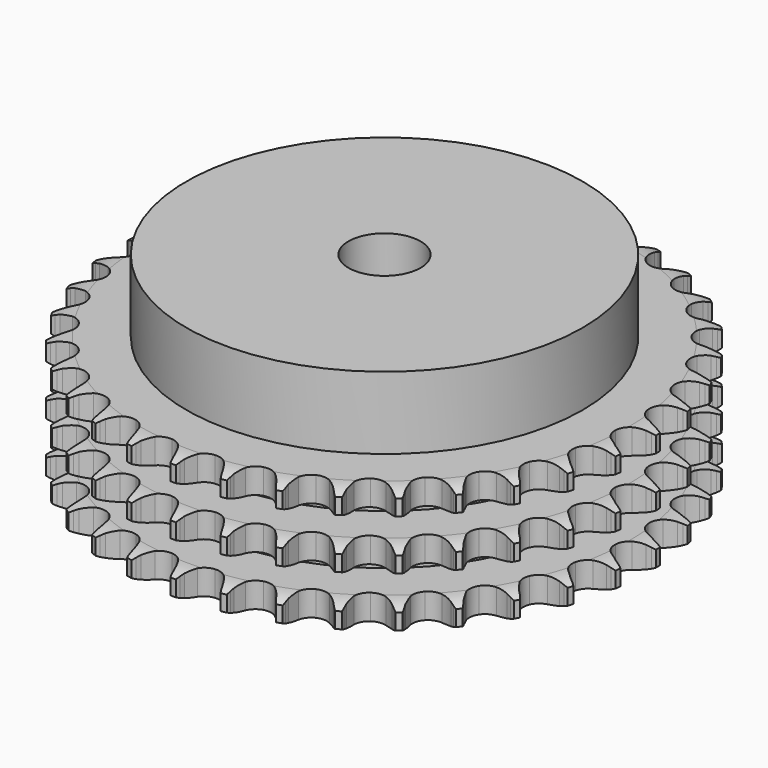
from build123d import *

# Parameters (mm, degrees)
PAD_DEPTH         = 34.9
SKETCH001_R       = 55
PAD001_DEPTH      = 55
SKETCH002_R       = 10
POCKET_DEPTH      = 0.001
POCKET_DEPTH_BACK = 55.001


with BuildPart() as part:
    # Sprocket → Pad (new body)
    with BuildSketch(Plane.XY):
        with BuildLine():
            ThreePointArc((-6.691346, 74.34694), (-5.938959, 73.318588), (-5.388264, 72.169532))
            Line((-5.388264, 72.169532), (-4.973116, 71.048101))
            ThreePointArc((-4.973116, 71.048101), (-4.315736, 69.599875), (-3.458518, 68.260216))
            ThreePointArc((-3.458518, 68.260216), (-1.934686, 66.983187), (0, 66.525082))
            ThreePointArc((0, 66.525082), (1.934686, 66.983187), (3.458518, 68.260216))
            ThreePointArc((3.458518, 68.260216), (4.315736, 69.599875), (4.973116, 71.048101))
            Line((4.973116, 71.048101), (5.388264, 72.169532))
            ThreePointArc((5.388264, 72.169532), (5.938959, 73.318588), (6.691346, 74.34694))
            ThreePointArc((6.691346, 74.34694), (7.248022, 73.20077), (7.584695, 71.97185))
            Line((7.584695, 71.97185), (7.792932, 70.794313))
            ThreePointArc((7.792932, 70.794313), (8.181157, 69.25198), (8.785394, 67.780788))
            ThreePointArc((8.785394, 67.780788), (10.056715, 66.252191), (11.878512, 65.455997))
            ThreePointArc((11.878512, 65.455997), (13.863904, 65.561288), (15.59127, 66.545704))
            Line((15.59127, 66.545704), (17.579324, 69.018345))
            ThreePointArc((17.579324, 69.018345), (17.869839, 69.541172), (18.18804, 70.047626))
            ThreePointArc((18.18804, 70.047626), (18.935057, 71.079886), (19.858972, 71.957368))
            ThreePointArc((19.858972, 71.957368), (20.202046, 70.730219), (20.313876, 69.460933))
            Line((20.313876, 69.460933), (20.308509, 68.265137))
            ThreePointArc((20.308509, 68.265137), (20.415101, 66.678271), (20.746936, 65.122831))
            ThreePointArc((20.746936, 65.122831), (21.724885, 63.391795), (23.375239, 62.283102))
            ThreePointArc((23.375239, 62.283102), (25.347526, 62.032195), (27.222906, 62.692358))
            Line((27.222906, 62.692358), (29.620519, 64.770282))
            ThreePointArc((29.620519, 64.770282), (29.999719, 65.232834), (30.403237, 65.674332))
            ThreePointArc((30.403237, 65.674332), (31.322566, 66.556618), (32.388314, 67.255027))
            ThreePointArc((32.388314, 67.255027), (32.506759, 65.986341), (32.390152, 64.717485))
            Line((32.390152, 64.717485), (32.171354, 63.541864))
            ThreePointArc((32.171354, 63.541864), (31.992887, 61.961466), (32.041655, 60.371771))
            ThreePointArc((32.041655, 60.371771), (32.6948, 58.493935), (34.120667, 57.108377))
            ThreePointArc((34.120667, 57.108377), (36.016457, 56.509337), (37.979576, 56.824029))
            Line((37.979576, 56.824029), (40.709685, 58.440449))
            ThreePointArc((40.709685, 58.440449), (41.165384, 58.827859), (41.64125, 59.190211))
            ThreePointArc((41.64125, 59.190211), (42.703343, 59.894166), (43.876669, 60.391055))
            ThreePointArc((43.876669, 60.391055), (43.766678, 59.121607), (43.425382, 57.893963))
            Line((43.425382, 57.893963), (43.000185, 56.776303))
            ThreePointArc((43.000185, 56.776303), (42.542395, 55.253169), (42.306528, 53.680314))
            ThreePointArc((42.306528, 53.680314), (42.613876, 51.716031), (43.769428, 50.098141))
            ThreePointArc((43.769428, 50.098141), (45.527789, 49.170222), (47.515551, 49.129328))
            Line((47.515551, 49.129328), (50.490409, 50.232292))
            ThreePointArc((50.490409, 50.232292), (51.007959, 50.532108), (51.540878, 50.803668))
            ThreePointArc((51.540878, 50.803668), (52.711599, 51.306666), (53.954792, 51.586064))
            ThreePointArc((53.954792, 51.586064), (53.6199, 50.356657), (53.064885, 49.209682))
            Line((53.064885, 49.209682), (52.446955, 48.185905))
            ThreePointArc((52.446955, 48.185905), (51.724556, 46.76899), (51.211635, 45.263527))
            ThreePointArc((51.211635, 45.263527), (51.163307, 43.275932), (52.011404, 41.47771))
            ThreePointArc((52.011404, 41.47771), (53.575821, 40.250736), (55.524336, 39.85557))
            Line((55.524336, 39.85557), (58.648329, 40.409628))
            ThreePointArc((58.648329, 40.409628), (59.211096, 40.612213), (59.78394, 40.784253))
            ThreePointArc((59.78394, 40.784253), (61.025661, 41.070127), (62.298764, 41.123054))
            ThreePointArc((62.298764, 41.123054), (61.749735, 39.973202), (60.998838, 38.943761))
            Line((60.998838, 38.943761), (60.208036, 38.046772))
            ThreePointArc((60.208036, 38.046772), (59.244247, 36.781617), (58.470758, 35.391933))
            ThreePointArc((58.470758, 35.391933), (58.068308, 33.444909), (58.58169, 31.524152))
            ThreePointArc((58.58169, 31.524152), (59.901882, 30.037558), (61.748524, 29.300822))
            Line((61.748524, 29.300822), (64.921244, 29.288165))
            ThreePointArc((64.921244, 29.288165), (65.51114, 29.387009), (66.105497, 29.453999))
            ThreePointArc((66.105497, 29.453999), (67.378307, 29.513561), (68.640402, 29.338316))
            ThreePointArc((68.640402, 29.338316), (67.894882, 28.304975), (66.972239, 27.426155))
            Line((66.972239, 27.426155), (66.033982, 26.684785))
            ThreePointArc((66.033982, 26.684785), (64.859779, 25.612053), (63.850582, 24.382813))
            ThreePointArc((63.850582, 24.382813), (63.106945, 22.538938), (63.269113, 20.557381))
            ThreePointArc((63.269113, 20.557381), (64.302647, 18.858948), (65.988064, 17.804321))
            Line((65.988064, 17.804321), (69.107537, 17.225356))
            ThreePointArc((69.107537, 17.225356), (69.705602, 17.217282), (70.302369, 17.177068))
            ThreePointArc((70.302369, 17.177068), (71.56536, 17.008404), (72.775881, 16.61062))
            ThreePointArc((72.775881, 16.61062), (71.857832, 15.727003), (70.793096, 15.027051))
            Line((70.793096, 15.027051), (69.737541, 14.465127))
            ThreePointArc((69.737541, 14.465127), (68.390664, 13.619296), (67.178197, 12.590009))
            ThreePointArc((67.178197, 12.590009), (66.117274, 10.908548), (65.923015, 8.929879))
            ThreePointArc((65.923015, 8.929879), (66.636672, 7.074196), (68.106693, 5.735574))
            Line((68.106693, 5.735574), (71.072656, 4.60891))
            ThreePointArc((71.072656, 4.60891), (71.659669, 4.494177), (72.239665, 4.348053))
            ThreePointArc((72.239665, 4.348053), (73.452243, 3.956584), (74.572284, 3.349045))
            ThreePointArc((74.572284, 3.349045), (73.511211, 2.643553), (72.338606, 2.144964))
            Line((72.338606, 2.144964), (71.199678, 1.780547))
            ThreePointArc((71.199678, 1.780547), (69.723417, 1.188804), (68.346648, 0.392552))
            ThreePointArc((68.346648, 0.392552), (67.002538, -1.072452), (66.458096, -2.984637))
            ThreePointArc((66.458096, -2.984637), (66.82894, -4.937927), (68.036317, -6.517518))
            Line((68.036317, -6.517518), (70.753442, -8.155669))
            ThreePointArc((70.753442, -8.155669), (71.310535, -8.373374), (71.855119, -8.620712))
            ThreePointArc((71.855119, -8.620712), (72.978311, -9.222405), (73.971871, -10.020171))
            ThreePointArc((73.971871, -10.020171), (72.801881, -10.524864), (71.559093, -10.806063))
            Line((71.559093, -10.806063), (70.373399, -10.96126))
            ThreePointArc((70.373399, -10.96126), (68.815202, -11.279898), (67.318382, -11.817521))
            ThreePointArc((67.318382, -11.817521), (65.734286, -13.018982), (64.85716, -14.803223))
            ThreePointArc((64.85716, -14.803223), (64.87327, -16.79134), (65.779197, -18.561133))
            Line((65.779197, -18.561133), (68.160154, -20.658119))
            ThreePointArc((68.160154, -20.658119), (68.669421, -20.971799), (69.16109, -21.312401))
            ThreePointArc((69.16109, -21.312401), (70.158795, -22.104977), (70.993942, -23.06733))
            ThreePointArc((70.993942, -23.06733), (69.752637, -23.355003), (68.479612, -23.409774))
            Line((68.479612, -23.409774), (67.285261, -23.350764))
            ThreePointArc((67.285261, -23.350764), (65.69521, -23.386054), (64.126448, -23.64777))
            ThreePointArc((64.126448, -23.64777), (62.35328, -24.547072), (61.171661, -26.146023))
            ThreePointArc((61.171661, -26.146023), (60.832521, -28.105066), (61.40788, -30.008177))
            Line((61.40788, -30.008177), (63.376143, -32.4966))
            ThreePointArc((63.376143, -32.4966), (63.821216, -32.896172), (64.244167, -33.319091))
            ThreePointArc((64.244167, -33.319091), (65.084319, -34.277078), (65.73421, -35.373087))
            ThreePointArc((65.73421, -35.373087), (64.461487, -35.434493), (63.19914, -35.261076))
            Line((63.19914, -35.261076), (62.034519, -34.989755))
            ThreePointArc((62.034519, -34.989755), (60.46372, -34.740563), (58.873438, -34.71796))
            ThreePointArc((58.873438, -34.71796), (56.968189, -35.286198), (55.520054, -36.648467))
            ThreePointArc((55.520054, -36.648467), (54.836564, -38.515472), (55.062864, -40.490733))
            Line((55.062864, -40.490733), (56.55517, -43.290614))
            ThreePointArc((56.55517, -43.290614), (56.921745, -43.763235), (57.262383, -44.254878))
            ThreePointArc((57.262383, -44.254878), (57.917978, -45.347485), (58.361725, -46.541923))
            ThreePointArc((58.361725, -46.541923), (57.098491, -46.375089), (55.887395, -45.979059))
            Line((55.887395, -45.979059), (54.789937, -45.504146))
            ThreePointArc((54.789937, -45.504146), (53.288876, -44.978482), (51.728186, -44.672287))
            ThreePointArc((51.728186, -44.672287), (49.752092, -44.891198), (48.083988, -45.973))
            ThreePointArc((48.083988, -45.973), (47.078114, -47.687959), (46.948081, -49.671885))
            Line((46.948081, -49.671885), (47.916468, -52.693232))
            ThreePointArc((47.916468, -52.693232), (48.192762, -53.223712), (48.440139, -53.768278))
            ThreePointArc((48.440139, -53.768278), (48.890106, -54.960386), (49.113447, -56.214864))
            ThreePointArc((49.113447, -56.214864), (47.900303, -55.825151), (46.779384, -55.219236))
            Line((46.779384, -55.219236), (45.784361, -54.555997))
            ThreePointArc((45.784361, -54.555997), (44.401284, -53.770755), (42.920348, -53.190809))
            ThreePointArc((42.920348, -53.190809), (40.936923, -53.053357), (39.102462, -53.819922))
            ThreePointArc((39.102462, -53.819922), (37.806536, -55.327716), (37.324349, -57.256541))
            Line((37.324349, -57.256541), (37.737691, -60.402245))
            ThreePointArc((37.737691, -60.402245), (37.914824, -60.973535), (38.06099, -61.55352))
            ThreePointArc((38.06099, -61.55352), (38.290866, -62.806816), (38.286622, -64.081012))
            ThreePointArc((38.286622, -64.081012), (37.16256, -63.480948), (36.167845, -62.684622))
            Line((36.167845, -62.684622), (35.307238, -61.854373))
            ThreePointArc((35.307238, -61.854373), (34.086598, -60.834793), (32.733015, -59.999735))
            ThreePointArc((32.733015, -59.999735), (30.806007, -59.510337), (28.864151, -59.937028))
            ThreePointArc((28.864151, -59.937028), (27.319824, -61.189195), (26.500981, -63.000924))
            Line((26.500981, -63.000924), (26.345993, -66.169881))
            ThreePointArc((26.345993, -66.169881), (26.418272, -66.763618), (26.458528, -67.360382))
            ThreePointArc((26.458528, -67.360382), (26.460926, -68.634583), (26.229234, -69.887544))
            ThreePointArc((26.229234, -69.887544), (25.230381, -69.096414), (24.393841, -68.135272))
            Line((24.393841, -68.135272), (23.695312, -67.164699))
            ThreePointArc((23.695312, -67.164699), (22.67634, -65.943549), (21.493615, -64.88022))
            ThreePointArc((21.493615, -64.88022), (19.684961, -64.054607), (17.698123, -64.127709))
            ThreePointArc((17.698123, -64.127709), (15.955031, -65.084002), (14.82585, -66.720406))
            Line((14.82585, -66.720406), (14.107514, -69.810763))
            ThreePointArc((14.107514, -69.810763), (14.072615, -70.407864), (14.005668, -71.002225))
            ThreePointArc((14.005668, -71.002225), (13.78051, -72.256378), (13.328817, -73.447833))
            ThreePointArc((13.328817, -73.447833), (12.487278, -72.491065), (11.835799, -71.395999))
            Line((11.835799, -71.395999), (11.321798, -70.316296))
            ThreePointArc((11.321798, -70.316296), (10.537247, -68.932826), (9.563393, -67.675401))
            ThreePointArc((9.563393, -67.675401), (7.931224, -66.540108), (5.963262, -66.257272))
            ThreePointArc((5.963262, -66.257272), (4.077429, -66.886956), (2.674204, -68.29544))
            Line((2.674204, -68.29544), (1.415607, -71.207869))
            ThreePointArc((1.415607, -71.207869), (1.274653, -71.789143), (1.102655, -72.361999))
            ThreePointArc((1.102655, -72.361999), (0.657177, -73.555793), (0, -74.647449))
            ThreePointArc((0, -74.647449), (-0.657177, -73.555793), (-1.102655, -72.361999))
            Line((-1.102655, -72.361999), (-1.415607, -71.207869))
            ThreePointArc((-1.415607, -71.207869), (-1.940523, -69.706546), (-2.674204, -68.29544))
            ThreePointArc((-2.674204, -68.29544), (-4.077429, -66.886956), (-5.963262, -66.257272))
            ThreePointArc((-5.963262, -66.257272), (-7.931224, -66.540108), (-9.563393, -67.675401))
            Line((-9.563393, -67.675401), (-11.321798, -70.316296))
            ThreePointArc((-11.321798, -70.316296), (-11.564278, -70.86306), (-11.835799, -71.395999))
            ThreePointArc((-11.835799, -71.395999), (-12.487278, -72.491065), (-13.328817, -73.447833))
            ThreePointArc((-13.328817, -73.447833), (-13.78051, -72.256378), (-14.005668, -71.002225))
            Line((-14.005668, -71.002225), (-14.107514, -69.810763))
            ThreePointArc((-14.107514, -69.810763), (-14.355922, -68.239839), (-14.82585, -66.720406))
            ThreePointArc((-14.82585, -66.720406), (-15.955031, -65.084002), (-17.698123, -64.127709))
            ThreePointArc((-17.698123, -64.127709), (-19.684961, -64.054607), (-21.493615, -64.88022))
            Line((-21.493615, -64.88022), (-23.695312, -67.164699))
            ThreePointArc((-23.695312, -67.164699), (-24.031523, -67.65938), (-24.393841, -68.135272))
            ThreePointArc((-24.393841, -68.135272), (-25.230381, -69.096414), (-26.229234, -69.887544))
            ThreePointArc((-26.229234, -69.887544), (-26.460926, -68.634583), (-26.458528, -67.360382))
            Line((-26.458528, -67.360382), (-26.345993, -66.169881))
            ThreePointArc((-26.345993, -66.169881), (-26.30991, -64.579848), (-26.500981, -63.000924))
            ThreePointArc((-26.500981, -63.000924), (-27.319824, -61.189195), (-28.864151, -59.937028))
            ThreePointArc((-28.864151, -59.937028), (-30.806007, -59.510337), (-32.733015, -59.999735))
            Line((-32.733015, -59.999735), (-35.307238, -61.854373))
            ThreePointArc((-35.307238, -61.854373), (-35.726376, -62.281072), (-36.167845, -62.684622))
            ThreePointArc((-36.167845, -62.684622), (-37.16256, -63.480948), (-38.286622, -64.081012))
            ThreePointArc((-38.286622, -64.081012), (-38.290866, -62.806816), (-38.06099, -61.55352))
            Line((-38.06099, -61.55352), (-37.737691, -60.402245))
            ThreePointArc((-37.737691, -60.402245), (-37.418276, -58.844207), (-37.324349, -57.256541))
            ThreePointArc((-37.324349, -57.256541), (-37.806536, -55.327716), (-39.102462, -53.819922))
            ThreePointArc((-39.102462, -53.819922), (-40.936923, -53.053357), (-42.920348, -53.190809))
            Line((-42.920348, -53.190809), (-45.784361, -54.555997))
            ThreePointArc((-45.784361, -54.555997), (-46.272953, -54.900998), (-46.779384, -55.219236))
            ThreePointArc((-46.779384, -55.219236), (-47.900303, -55.825151), (-49.113447, -56.214864))
            ThreePointArc((-49.113447, -56.214864), (-48.890106, -54.960386), (-48.440139, -53.768278))
            Line((-48.440139, -53.768278), (-47.916468, -52.693232))
            ThreePointArc((-47.916468, -52.693232), (-47.323988, -51.217265), (-46.948081, -49.671885))
            ThreePointArc((-46.948081, -49.671885), (-47.078114, -47.687959), (-48.083988, -45.973))
            ThreePointArc((-48.083988, -45.973), (-49.752092, -44.891198), (-51.728186, -44.672287))
            Line((-51.728186, -44.672287), (-54.789937, -45.504146))
            ThreePointArc((-54.789937, -45.504146), (-55.332279, -45.756362), (-55.887395, -45.979059))
            ThreePointArc((-55.887395, -45.979059), (-57.098491, -46.375089), (-58.361725, -46.541923))
            ThreePointArc((-58.361725, -46.541923), (-57.917978, -45.347485), (-57.262383, -44.254878))
            Line((-57.262383, -44.254878), (-56.55517, -43.290614))
            ThreePointArc((-56.55517, -43.290614), (-55.708668, -41.944159), (-55.062864, -40.490733))
            ThreePointArc((-55.062864, -40.490733), (-54.836564, -38.515472), (-55.520054, -36.648467))
            ThreePointArc((-55.520054, -36.648467), (-56.968189, -35.286198), (-58.873438, -34.71796))
            Line((-58.873438, -34.71796), (-62.034519, -34.989755))
            ThreePointArc((-62.034519, -34.989755), (-62.613181, -35.141079), (-63.19914, -35.261076))
            ThreePointArc((-63.19914, -35.261076), (-64.461487, -35.434493), (-65.73421, -35.373087))
            ThreePointArc((-65.73421, -35.373087), (-65.084319, -34.277078), (-64.244167, -33.319091))
            Line((-64.244167, -33.319091), (-63.376143, -32.4966))
            ThreePointArc((-63.376143, -32.4966), (-62.302825, -31.322932), (-61.40788, -30.008177))
            ThreePointArc((-61.40788, -30.008177), (-60.832521, -28.105066), (-61.171661, -26.146023))
            ThreePointArc((-61.171661, -26.146023), (-62.35328, -24.547072), (-64.126448, -23.64777))
            Line((-64.126448, -23.64777), (-67.285261, -23.350764))
            ThreePointArc((-67.285261, -23.350764), (-67.881643, -23.396332), (-68.479612, -23.409774))
            ThreePointArc((-68.479612, -23.409774), (-69.752637, -23.355003), (-70.993942, -23.06733))
            ThreePointArc((-70.993942, -23.06733), (-70.158795, -22.104977), (-69.16109, -21.312401))
            Line((-69.16109, -21.312401), (-68.160154, -20.658119))
            ThreePointArc((-68.160154, -20.658119), (-66.894519, -19.694961), (-65.779197, -18.561133))
            ThreePointArc((-65.779197, -18.561133), (-64.87327, -16.79134), (-64.85716, -14.803223))
            ThreePointArc((-64.85716, -14.803223), (-65.734286, -13.018982), (-67.318382, -11.817521))
            Line((-67.318382, -11.817521), (-70.373399, -10.96126))
            ThreePointArc((-70.373399, -10.96126), (-70.968333, -10.899608), (-71.559093, -10.806063))
            ThreePointArc((-71.559093, -10.806063), (-72.801881, -10.524864), (-73.971871, -10.020171))
            ThreePointArc((-73.971871, -10.020171), (-72.978311, -9.222405), (-71.855119, -8.620712))
            Line((-71.855119, -8.620712), (-70.753442, -8.155669))
            ThreePointArc((-70.753442, -8.155669), (-69.336167, -7.433977), (-68.036317, -6.517518))
            ThreePointArc((-68.036317, -6.517518), (-66.82894, -4.937927), (-66.458096, -2.984637))
            ThreePointArc((-66.458096, -2.984637), (-67.002538, -1.072452), (-68.346648, 0.392552))
            Line((-68.346648, 0.392552), (-71.199678, 1.780547))
            ThreePointArc((-71.199678, 1.780547), (-71.774043, 1.947439), (-72.338606, 2.144964))
            ThreePointArc((-72.338606, 2.144964), (-73.511211, 2.643553), (-74.572284, 3.349045))
            ThreePointArc((-74.572284, 3.349045), (-73.452243, 3.956584), (-72.239665, 4.348053))
            Line((-72.239665, 4.348053), (-71.072656, 4.60891))
            ThreePointArc((-71.072656, 4.60891), (-69.549294, 5.065941), (-68.106693, 5.735574))
            ThreePointArc((-68.106693, 5.735574), (-66.636672, 7.074196), (-65.923015, 8.929879))
            ThreePointArc((-65.923015, 8.929879), (-66.117274, 10.908548), (-67.178197, 12.590009))
            Line((-67.178197, 12.590009), (-69.737541, 14.465127))
            ThreePointArc((-69.737541, 14.465127), (-70.272876, 14.731893), (-70.793096, 15.027051))
            ThreePointArc((-70.793096, 15.027051), (-71.857832, 15.727003), (-72.775881, 16.61062))
            ThreePointArc((-72.775881, 16.61062), (-71.56536, 17.008404), (-70.302369, 17.177068))
            Line((-70.302369, 17.177068), (-69.107537, 17.225356))
            ThreePointArc((-69.107537, 17.225356), (-67.52705, 17.403035), (-65.988064, 17.804321))
            ThreePointArc((-65.988064, 17.804321), (-64.302647, 18.858948), (-63.269113, 20.557381))
            ThreePointArc((-63.269113, 20.557381), (-63.106945, 22.538938), (-63.850582, 24.382813))
            Line((-63.850582, 24.382813), (-66.033982, 26.684785))
            ThreePointArc((-66.033982, 26.684785), (-66.513081, 27.042852), (-66.972239, 27.426155))
            ThreePointArc((-66.972239, 27.426155), (-67.894882, 28.304975), (-68.640402, 29.338316))
            ThreePointArc((-68.640402, 29.338316), (-67.378307, 29.513561), (-66.105497, 29.453999))
            Line((-66.105497, 29.453999), (-64.921244, 29.288165))
            ThreePointArc((-64.921244, 29.288165), (-63.334431, 29.180782), (-61.748524, 29.300822))
            ThreePointArc((-61.748524, 29.300822), (-59.901882, 30.037558), (-58.58169, 31.524152))
            ThreePointArc((-58.58169, 31.524152), (-58.068308, 33.444909), (-58.470758, 35.391933))
            Line((-58.470758, 35.391933), (-60.208036, 38.046772))
            ThreePointArc((-60.208036, 38.046772), (-60.615501, 38.484631), (-60.998838, 38.943761))
            ThreePointArc((-60.998838, 38.943761), (-61.749735, 39.973202), (-62.298764, 41.123054))
            ThreePointArc((-62.298764, 41.123054), (-61.025661, 41.070127), (-59.78394, 40.784253))
            Line((-59.78394, 40.784253), (-58.648329, 40.409628))
            ThreePointArc((-58.648329, 40.409628), (-57.10619, 40.020634), (-55.524336, 39.85557))
            ThreePointArc((-55.524336, 39.85557), (-53.575821, 40.250736), (-52.011404, 41.47771))
            ThreePointArc((-52.011404, 41.47771), (-51.163307, 43.275932), (-51.211635, 45.263527))
            Line((-51.211635, 45.263527), (-52.446955, 48.185905))
            ThreePointArc((-52.446955, 48.185905), (-52.769689, 48.689483), (-53.064885, 49.209682))
            ThreePointArc((-53.064885, 49.209682), (-53.6199, 50.356657), (-53.954792, 51.586064))
            ThreePointArc((-53.954792, 51.586064), (-52.711599, 51.306666), (-51.540878, 50.803668))
            Line((-51.540878, 50.803668), (-50.490409, 50.232292))
            ThreePointArc((-50.490409, 50.232292), (-49.04251, 49.57419), (-47.515551, 49.129328))
            ThreePointArc((-47.515551, 49.129328), (-45.527789, 49.170222), (-43.769428, 50.098141))
            ThreePointArc((-43.769428, 50.098141), (-42.613876, 51.716031), (-42.306528, 53.680314))
            Line((-42.306528, 53.680314), (-43.000185, 56.776303))
            ThreePointArc((-43.000185, 56.776303), (-43.227815, 57.329415), (-43.425382, 57.893963))
            ThreePointArc((-43.425382, 57.893963), (-43.766678, 59.121607), (-43.876669, 60.391055))
            ThreePointArc((-43.876669, 60.391055), (-42.703343, 59.894166), (-41.64125, 59.190211))
            Line((-41.64125, 59.190211), (-40.709685, 58.440449))
            ThreePointArc((-40.709685, 58.440449), (-39.402564, 57.534391), (-37.979576, 56.824029))
            ThreePointArc((-37.979576, 56.824029), (-36.016457, 56.509337), (-34.120667, 57.108377))
            ThreePointArc((-34.120667, 57.108377), (-32.6948, 58.493935), (-32.041655, 60.371771))
            Line((-32.041655, 60.371771), (-32.171354, 63.541864))
            ThreePointArc((-32.171354, 63.541864), (-32.296564, 64.126732), (-32.390152, 64.717485))
            ThreePointArc((-32.390152, 64.717485), (-32.506759, 65.986341), (-32.388314, 67.255027))
            ThreePointArc((-32.388314, 67.255027), (-31.322566, 66.556618), (-30.403237, 65.674332))
            Line((-30.403237, 65.674332), (-29.620519, 64.770282))
            ThreePointArc((-29.620519, 64.770282), (-28.496186, 63.645389), (-27.222906, 62.692358))
            ThreePointArc((-27.222906, 62.692358), (-25.347526, 62.032195), (-23.375239, 62.283102))
            ThreePointArc((-23.375239, 62.283102), (-21.724885, 63.391795), (-20.746936, 65.122831))
            Line((-20.746936, 65.122831), (-20.308509, 68.265137))
            ThreePointArc((-20.308509, 68.265137), (-20.327275, 68.862963), (-20.313876, 69.460933))
            ThreePointArc((-20.313876, 69.460933), (-20.202046, 70.730219), (-19.858972, 71.957368))
            ThreePointArc((-19.858972, 71.957368), (-18.935057, 71.079886), (-18.18804, 70.047626))
            Line((-18.18804, 70.047626), (-17.579324, 69.018345))
            ThreePointArc((-17.579324, 69.018345), (-16.673918, 67.710772), (-15.59127, 66.545704))
            ThreePointArc((-15.59127, 66.545704), (-13.863904, 65.561288), (-11.878512, 65.455997))
            ThreePointArc((-11.878512, 65.455997), (-10.056715, 66.252191), (-8.785394, 67.780788))
            Line((-8.785394, 67.780788), (-7.792932, 70.794313))
            ThreePointArc((-7.792932, 70.794313), (-7.70465, 71.385882), (-7.584695, 71.97185))
            ThreePointArc((-7.584695, 71.97185), (-7.248022, 73.20077), (-6.691346, 74.34694))
        make_face()
    extrude(amount=PAD_DEPTH)

    # Sketch → Groove (revolve, cut)
    with BuildSketch(Plane.XZ):
        with BuildLine():
            ThreePointArc((67.683431, 0), (70.59032, 0.329167), (73.35, 1.3))
            Line((73.35, 1.3), (73.35, 5.7))
            ThreePointArc((73.35, 5.7), (70.59032, 6.670833), (67.683431, 7))
            Line((55, 7), (67.683431, 7))
            Line((55, 7), (55, 13.95))
            Line((55, 13.95), (67.683431, 13.95))
            ThreePointArc((67.683431, 13.95), (70.59032, 14.279167), (73.35, 15.25))
            Line((73.35, 19.65), (73.35, 15.25))
            ThreePointArc((73.35, 19.65), (70.59032, 20.620833), (67.683431, 20.95))
            Line((55, 20.95), (67.683431, 20.95))
            Line((55, 27.9), (55, 20.95))
            Line((67.683431, 27.9), (55, 27.9))
            ThreePointArc((67.683431, 27.9), (70.59032, 28.229167), (73.35, 29.2))
            Line((73.35, 29.2), (73.35, 33.6))
            ThreePointArc((73.35, 33.6), (70.59032, 34.570833), (67.683431, 34.9))
            Line((67.683431, 34.9), (83.35, 34.9))
            Line((83.35, 34.9), (83.35, 0))
            Line((67.683431, 0), (83.35, 0))
        make_face()
    revolve(axis=Axis((0, 0, 0), (0, 0, 1)), mode=Mode.SUBTRACT)

    # Sketch001 → Pad001 (join)
    with BuildSketch(Plane.XY):
        Circle(SKETCH001_R)
    extrude(amount=PAD001_DEPTH)

    # Sketch002 → Pocket (cut, two sides)
    with BuildSketch(Plane.XY) as pocket_sk:
        Circle(SKETCH002_R)
    extrude(amount=-POCKET_DEPTH, mode=Mode.SUBTRACT)
    extrude(pocket_sk.sketch, amount=POCKET_DEPTH_BACK, mode=Mode.SUBTRACT)


solid = part.part
